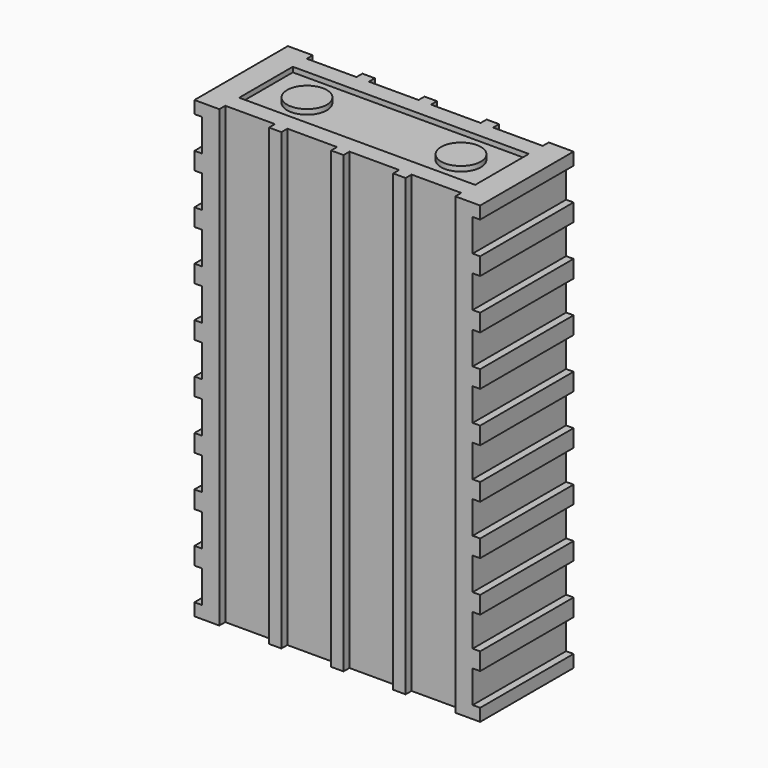
from build123d import *

# Parameters (mm, degrees)
F0_W     = 115
F0_H     = 47
F1_DEPTH = 183
F2_W     = 95
F2_H     = 27
F2_R     = 8
F3_DEPTH = 2
F4_W     = 20
F4_H     = 3
F5_DEPTH = 183.001
F6_W     = 3
F6_H     = 13
F7_DEPTH = 47.001


with BuildPart() as f1:
    # F0 (on Top) → F1 (new body)
    with BuildSketch(Plane.XY):
        Rectangle(F0_W, F0_H)
    extrude(amount=F1_DEPTH)

    # F2 (on face) → F3 (cut)
    with BuildSketch(Plane.XY.offset(183)):
        Rectangle(F2_W, F2_H)
        with Locations((-31, 0)):
            Circle(F2_R, mode=Mode.SUBTRACT)
        with Locations((31, 0)):
            Circle(F2_R, mode=Mode.SUBTRACT)
    extrude(amount=-F3_DEPTH, mode=Mode.SUBTRACT)

    # F4 (on face) → F5 (cut, through all)
    with BuildSketch(Plane.XY.offset(183)):
        with Locations((-37.5, 22)):
            Rectangle(F4_W, F4_H)
        with Locations((-12.5, 22)):
            Rectangle(F4_W, F4_H)
        with Locations((12.5, 22)):
            Rectangle(F4_W, F4_H)
        with Locations((37.5, 22)):
            Rectangle(F4_W, F4_H)
        with Locations((37.5, -22)):
            Rectangle(F4_W, F4_H)
        with Locations((12.5, -22)):
            Rectangle(F4_W, F4_H)
        with Locations((-12.5, -22)):
            Rectangle(F4_W, F4_H)
        with Locations((-37.5, -22)):
            Rectangle(F4_W, F4_H)
    extrude(amount=-F5_DEPTH, mode=Mode.SUBTRACT)

    # F6 (on face) → F7 (cut, through all)
    with BuildSketch(Plane.XZ.offset(23.5)):
        with Locations((-56, 171.5)):
            Rectangle(F6_W, F6_H)
        with Locations((-56, 151.5)):
            Rectangle(F6_W, F6_H)
        with Locations((-56, 131.5)):
            Rectangle(F6_W, F6_H)
        with Locations((-56, 111.5)):
            Rectangle(F6_W, F6_H)
        with Locations((-56, 91.5)):
            Rectangle(F6_W, F6_H)
        with Locations((-56, 71.5)):
            Rectangle(F6_W, F6_H)
        with Locations((-56, 51.5)):
            Rectangle(F6_W, F6_H)
        with Locations((-56, 31.5)):
            Rectangle(F6_W, F6_H)
        with Locations((-56, 11.5)):
            Rectangle(F6_W, F6_H)
        with Locations((56, 171.5)):
            Rectangle(F6_W, F6_H)
        with Locations((56, 151.5)):
            Rectangle(F6_W, F6_H)
        with Locations((56, 131.5)):
            Rectangle(F6_W, F6_H)
        with Locations((56, 111.5)):
            Rectangle(F6_W, F6_H)
        with Locations((56, 91.5)):
            Rectangle(F6_W, F6_H)
        with Locations((56, 11.5)):
            Rectangle(F6_W, F6_H)
        with Locations((56, 51.5)):
            Rectangle(F6_W, F6_H)
        with Locations((56, 71.5)):
            Rectangle(F6_W, F6_H)
        with Locations((56, 31.5)):
            Rectangle(F6_W, F6_H)
    extrude(amount=-F7_DEPTH, mode=Mode.SUBTRACT)


solid = f1.part
